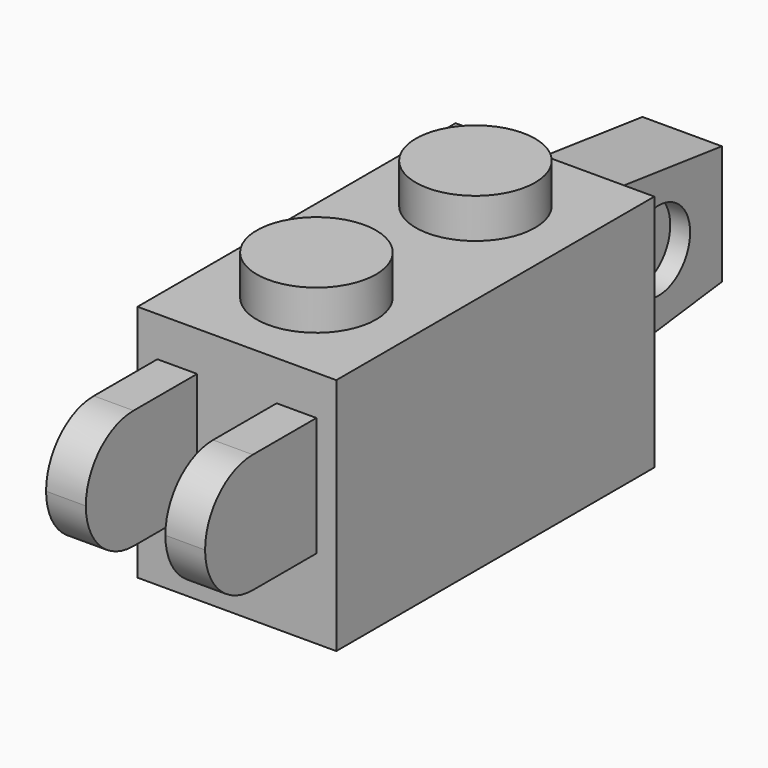
from build123d import *

# Parameters (mm, degrees)
F0_W      = 7.9375
F0_H      = 15.875
F0_R      = 2.38125
F1_DEPTH  = 9.525
F2_DEPTH  = 11.1125
F3_W      = 3.175
F3_H      = 2.38125
F4_DEPTH  = 3.175
F5_W      = 1.5875
F5_H      = 6.35
F6_DEPTH  = 6.35
F7_DEPTH  = 1.5875
F8_R      = 1.5875
F9_DEPTH  = 0.79375
F10_R     = 1.5875
F11_DEPTH = 0.79375


with BuildPart() as f1:
    # F0 (on Top) → F1 (new body)
    with BuildSketch(Plane.XY):
        Rectangle(F0_W, F0_H)
        with Locations((0, -3.96875)):
            Circle(F0_R, mode=Mode.SUBTRACT)
        with Locations((0, 3.96875)):
            Circle(F0_R, mode=Mode.SUBTRACT)
    extrude(amount=F1_DEPTH)

    # F0 (on Top) → F2 (join)
    with BuildSketch(Plane.XY):
        with Locations((0, 3.96875)):
            Circle(F0_R)
        with Locations((0, -3.96875)):
            Circle(F0_R)
    extrude(amount=F2_DEPTH)

    # F3 (on Right) → F4 (join, symmetric)
    with BuildSketch(Plane.YZ):
        with Locations((-9.525, 6.746875)):
            Rectangle(F3_W, F3_H)
        with Locations((-9.525, 4.365625)):
            Rectangle(F3_W, F3_H)
        with BuildLine():
            Line((-13.49375, 5.55625), (-11.1125, 5.55625))
            Line((-11.1125, 5.55625), (-11.1125, 7.9375))
            ThreePointArc((-11.1125, 7.9375), (-12.796298, 7.240048), (-13.49375, 5.55625))
        make_face()
        with BuildLine():
            Line((-11.1125, 3.175), (-11.1125, 5.55625))
            Line((-11.1125, 5.55625), (-13.49375, 5.55625))
            ThreePointArc((-13.49375, 5.55625), (-12.796298, 3.872452), (-11.1125, 3.175))
        make_face()
    extrude(amount=F4_DEPTH, both=True)

    # F5 (on face) → F6 (cut)
    with BuildSketch(Plane.XY.offset(7.9375)):
        with Locations((0.79375, -11.1125)):
            Rectangle(F5_W, F5_H)
        with Locations((-0.79375, -11.1125)):
            Rectangle(F5_W, F5_H)
    extrude(amount=-F6_DEPTH, mode=Mode.SUBTRACT)

    # F3 (on Right) → F7 (join, symmetric)
    with BuildSketch(Plane.YZ):
        Polygon((7.9375, 8.73125), (7.9375, 5.55625), (14.2875, 5.55625), (14.2875, 7.9375), align=None)
        Polygon((14.2875, 5.55625), (7.9375, 5.55625), (7.9375, 2.38125), (14.2875, 3.175), align=None)
    extrude(amount=F7_DEPTH, both=True)

    # F8 (on face) → F9 (cut)
    with BuildSketch(Plane.YZ.offset(1.5875)):
        with Locations((11.1125, 5.55625)):
            Circle(F8_R)
    extrude(amount=-F9_DEPTH, mode=Mode.SUBTRACT)

    # F10 (on face) → F11 (cut)
    with BuildSketch(Plane(origin=(-1.5875, 0, 0), x_dir=(0, -1, 0), z_dir=(-1, 0, 0))):
        with Locations((-11.1125, 5.55625)):
            Circle(F10_R)
    extrude(amount=-F11_DEPTH, mode=Mode.SUBTRACT)


solid = f1.part
